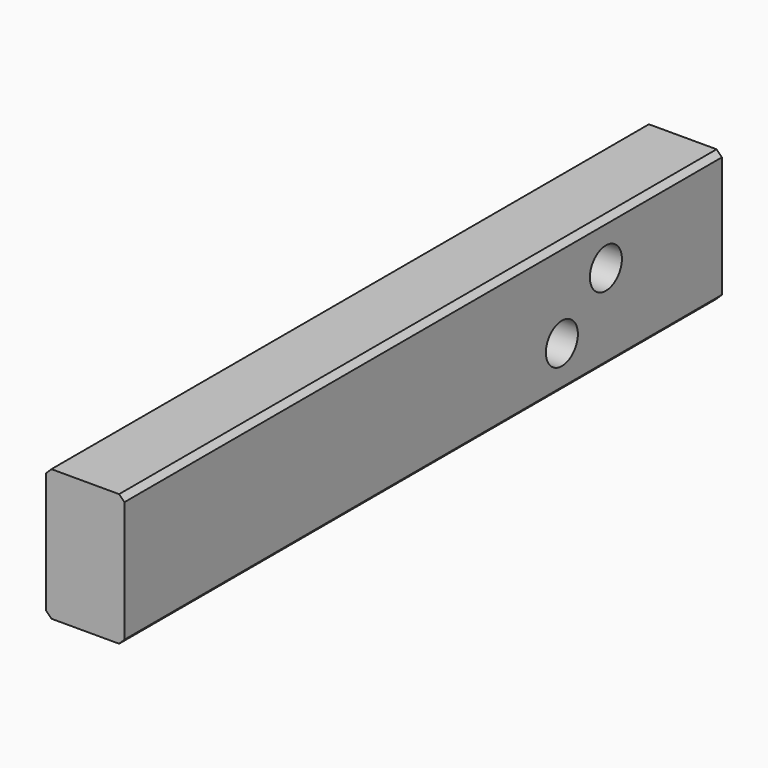
from build123d import *

# Parameters (mm, degrees)
F0_W     = 37.30498
F0_H     = 62.70498
F1_DEPTH = 355.6
F3_D     = 19.05
F4_SIZE  = 2.54


with BuildPart() as f1:
    # F0 (on Front) → F1 (new body)
    with BuildSketch(Plane.XZ):
        with Locations((-1175.14751, 0)):
            Rectangle(F0_W, F0_H)
    extrude(amount=F1_DEPTH)

    # F3 (through all)
    with Locations(Plane(origin=(-1193.8, 0, 0), x_dir=(0, -1, 0), z_dir=(-1, 0, 0))):
        with Locations((69.05498, 10.44829), (95.25, -10.45591)):
            Hole(F3_D / 2)

    # F4
    f4_edges = [f1.edges().sort_by_distance(p)[0] for p in [
        (-1193.8, -177.8, 31.35249),
        (-1156.49502, -177.8, 31.35249),
        (-1193.8, -177.8, -31.35249),
        (-1156.49502, -177.8, -31.35249),
    ]]
    chamfer(f4_edges, length=F4_SIZE)


solid = f1.part
